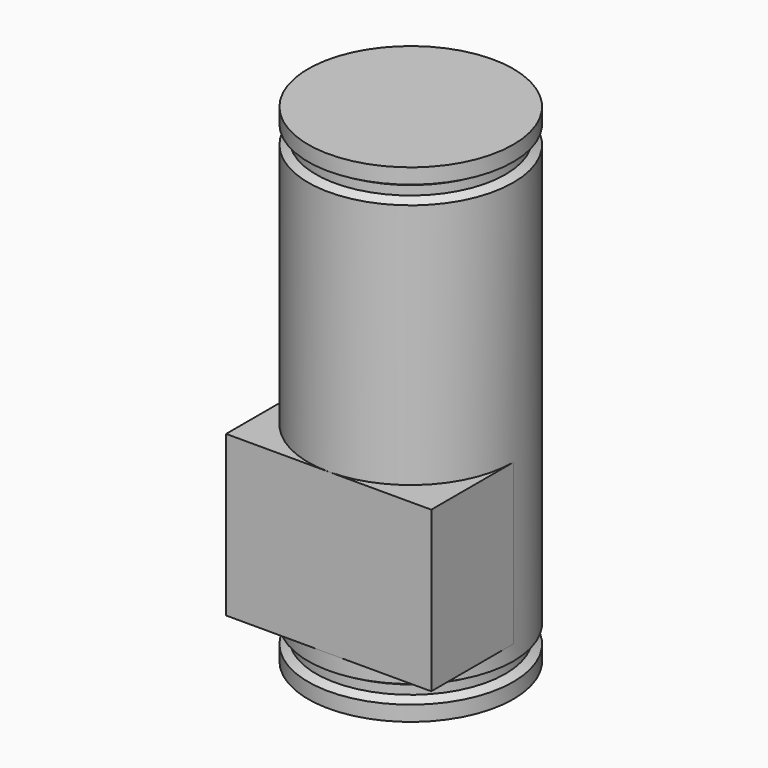
from build123d import *

# Parameters (mm, degrees)
SKETCH010_R  = 16.875
PAD002_DEPTH = 8
PAD003_DEPTH = 26.3
SKETCH012_R  = 16.875
PAD004_DEPTH = 46


with BuildPart() as part:
    # Sketch010 → Pad002 (new body)
    with BuildSketch(Plane.XY):
        Circle(SKETCH010_R)
    extrude(amount=PAD002_DEPTH)

    # Sketch011 (on Face3 of Pad002) → Pad003 (join)
    with BuildSketch(Plane.XY.offset(8)):
        with BuildLine():
            Line((-16.875, 0), (-16.875, -16.875))
            Line((-16.875, -16.875), (16.875, -16.875))
            Line((16.875, -16.875), (16.875, 0))
            ThreePointArc((16.875, 0), (0, 16.875), (-16.875, 0))
        make_face()
    extrude(amount=PAD003_DEPTH)

    # Sketch012 (on Face6 of Pad003) → Pad004 (join)
    with BuildSketch(Plane.XY.offset(34.3)):
        Circle(SKETCH012_R)
    extrude(amount=PAD004_DEPTH)

    # Sketch013 → Groove (revolve, cut)
    with BuildSketch(Plane.XZ):
        Polygon((18.174038, 75.55), (18.174038, 77.05), (16.875, 77.8), (15.575962, 77.05), (15.575962, 75.55), (16.875, 74.8), align=None)
        Polygon((18.174038, 3.25), (18.174038, 4.75), (16.875, 5.5), (15.575962, 4.75), (15.575962, 3.25), (16.875, 2.5), align=None)
    revolve(axis=Axis((0, 0, 0), (0, 0, 1)), mode=Mode.SUBTRACT)


solid = part.part
